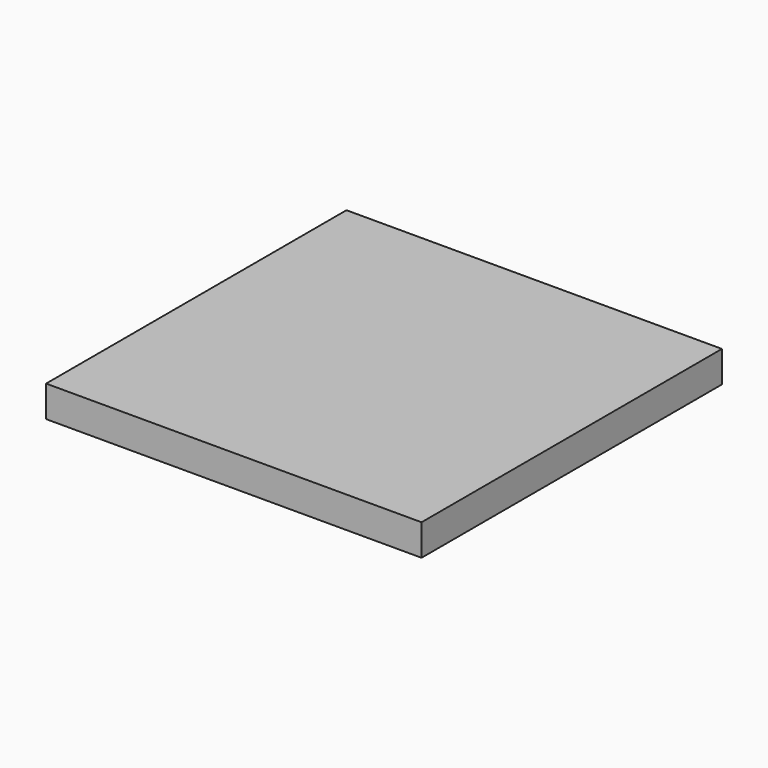
from build123d import *

# Parameters (mm, degrees)
SKETCH_W  = 120
SKETCH_H  = 120
PAD_DEPTH = 10


with BuildPart() as part:
    # Sketch → Pad (new body)
    with BuildSketch(Plane.XY):
        with Locations((60, 60)):
            Rectangle(SKETCH_W, SKETCH_H)
    extrude(amount=PAD_DEPTH)


solid = part.part
